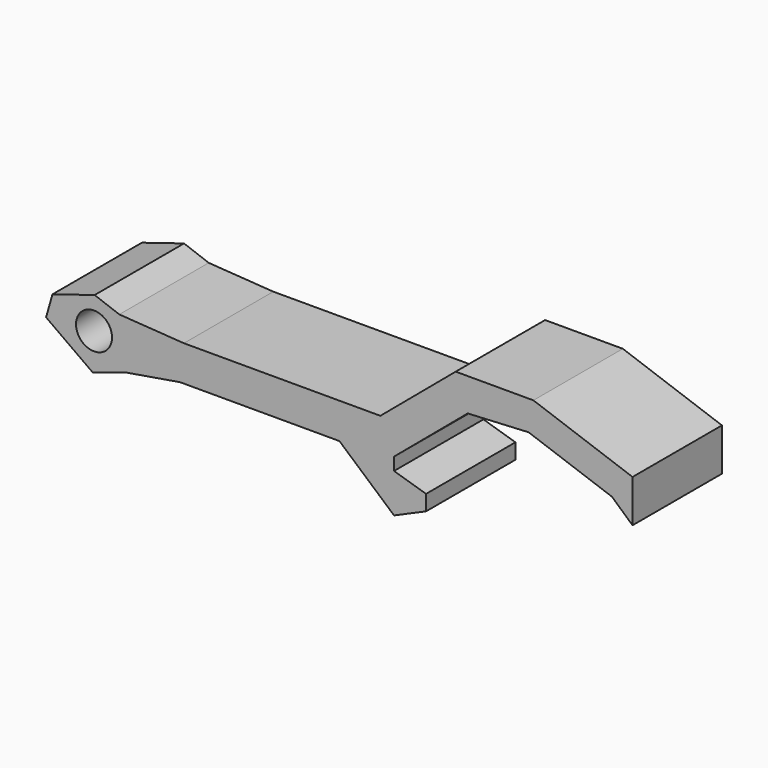
from build123d import *

# Parameters (mm, degrees)
F0_R     = 1.37018
F1_DEPTH = 8.5


with BuildPart() as f1:
    # F0 (on Front) → F1 (new body)
    with BuildSketch(Plane.XZ):
        Polygon((-8.959188, -5.317952), (-10.834723, -4.6281), (-14.043039, -5.622007), (-14.529336, -7.324045), (-10.986317, -9.859733), (-8.361869, -9.027591), (-4.342105, -8.352694), (7.783673, -8.352694), (11.937415, -11.981044), (14.371626, -10.917423), (14.371626, -9.746462), (11.937415, -9.004855), (11.937415, -8.04084), (17.539211, -3.32757), (22.170347, -3.084335), (28.509935, -5.337185), (30.077388, -6.74456), (30.077388, -3.506354), (22.539211, -0.82757), (16.627388, -0.82757), (10.897244, -5.648831), (-4.04637, -5.648831), align=None)
        with Locations((-10.882112, -7.046161)):
            Circle(F0_R, mode=Mode.SUBTRACT)
    extrude(amount=F1_DEPTH)


solid = f1.part
